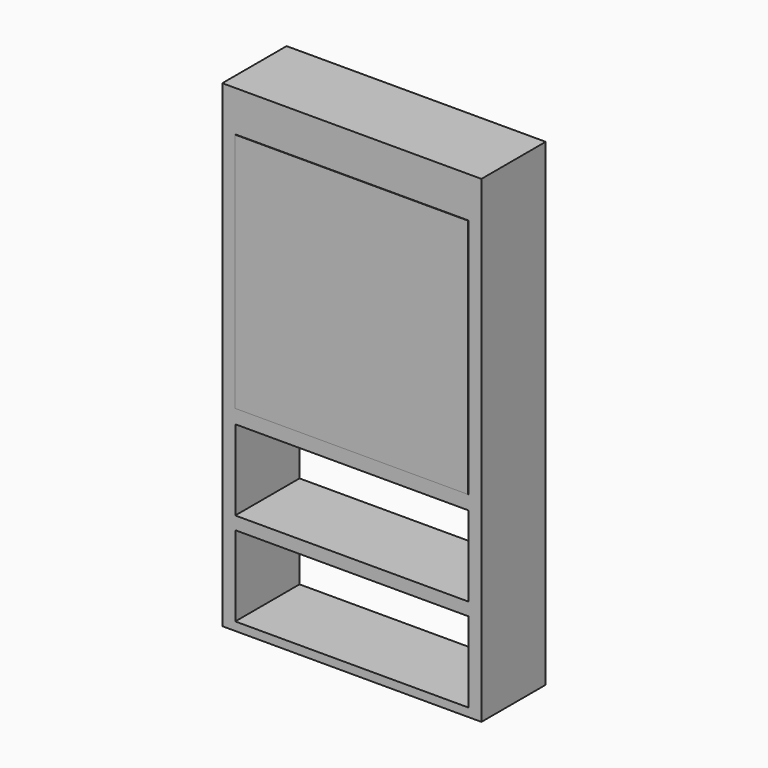
from build123d import *

# Parameters (mm, degrees)
F0_W     = 1000
F0_H     = 1845
F1_DEPTH = 310
F4_W     = 900
F4_H     = 930
F2_DEPTH = 2
F5_W     = 900
F5_H     = 310
F3_DEPTH = 310.001


with BuildPart() as f1:
    # F0 (on Front) → F1 (new body)
    with BuildSketch(Plane.XZ):
        Rectangle(F0_W, F0_H)
    extrude(amount=F1_DEPTH)

    # F5 (on face) → F3 (cut, through all)
    with BuildSketch(Plane.XZ.offset(310)):
        with Locations((0, -375)):
            Rectangle(F5_W, F5_H)
        with Locations((0, -735)):
            Rectangle(F5_W, F5_H)
    extrude(amount=-F3_DEPTH, mode=Mode.SUBTRACT)


with BuildPart() as f2:
    # F4 (on face) → F2 (new body)
    with BuildSketch(Plane.XZ.offset(310)):
        with Locations((0, 300)):
            Rectangle(F4_W, F4_H)
    extrude(amount=F2_DEPTH)


solid = Compound([f1.part, f2.part])
